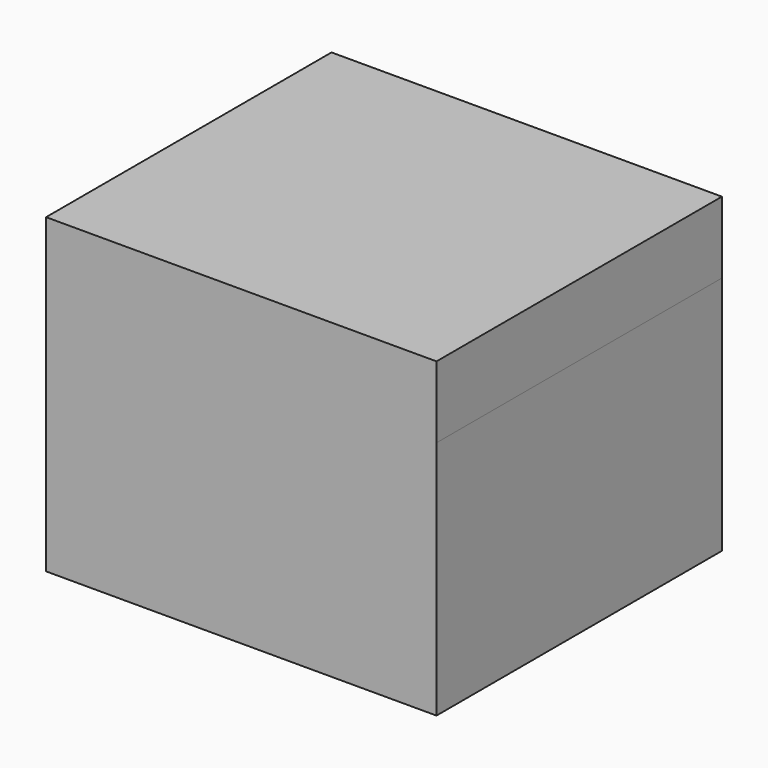
from build123d import *

# Parameters (mm, degrees)
F0_W      = 62.258241
F0_H      = 49.729614
F1_DEPTH  = 56.896
F1_FACE_W = 62.258242
F1_FACE_H = 56.896
F2_DEPTH  = 11.43


with BuildPart() as f1:
    # F0 (on Front) → F1 (new body)
    with BuildSketch(Plane.XZ):
        with Locations((-5.912338, 20.992)):
            Rectangle(F0_W, F0_H)
    extrude(amount=F1_DEPTH)

    # F1_face (on face) → F2 (join)
    with BuildSketch(Plane(origin=(-5.912338, -28.448, 45.856807), x_dir=(1, 0, 0), z_dir=(0, 0, 1))):
        Rectangle(F1_FACE_W, F1_FACE_H)
    extrude(amount=-F2_DEPTH)


solid = f1.part
